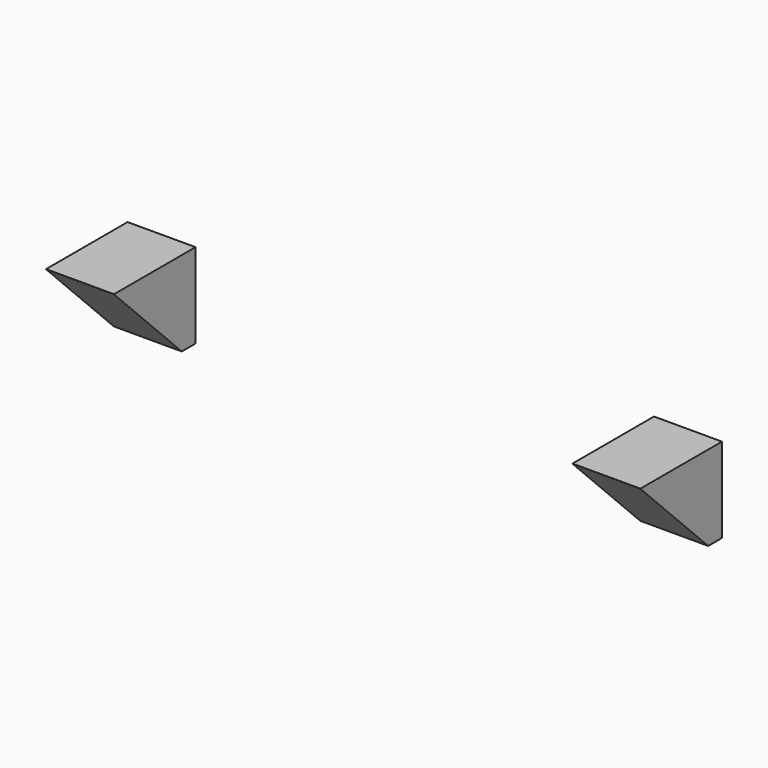
from build123d import *

# Parameters (mm, degrees)
BOX003_W     = 4
BOX003_H     = 6
BOX003_DEPTH = 5
BOX002_W     = 4
BOX002_H     = 6
BOX002_DEPTH = 5
CHAMFER_SIZE = 4.99


with BuildPart() as obj1:
    # Box003 → Box003 (new body)
    with BuildSketch(Plane(origin=(78, -8.5, 7), x_dir=(1, 0, 0), z_dir=(0, 0, 1))):
        with Locations((2, 3)):
            Rectangle(BOX003_W, BOX003_H)
    extrude(amount=BOX003_DEPTH)


with BuildPart() as obj2:
    # Box002 → Box002 (new body)
    with BuildSketch(Plane(origin=(47, -8.5, 7), x_dir=(1, 0, 0), z_dir=(0, 0, 1))):
        with Locations((2, 3)):
            Rectangle(BOX002_W, BOX002_H)
    extrude(amount=BOX002_DEPTH)

    # Fusion003: union obj1
    add(obj1.part)

    # Chamfer
    chamfer_edges = [obj2.edges().sort_by_distance(p)[0] for p in [
        (49, -8.5, 7),
        (80, -8.5, 7),
    ]]
    chamfer(chamfer_edges, length=CHAMFER_SIZE)


solid = obj2.part
